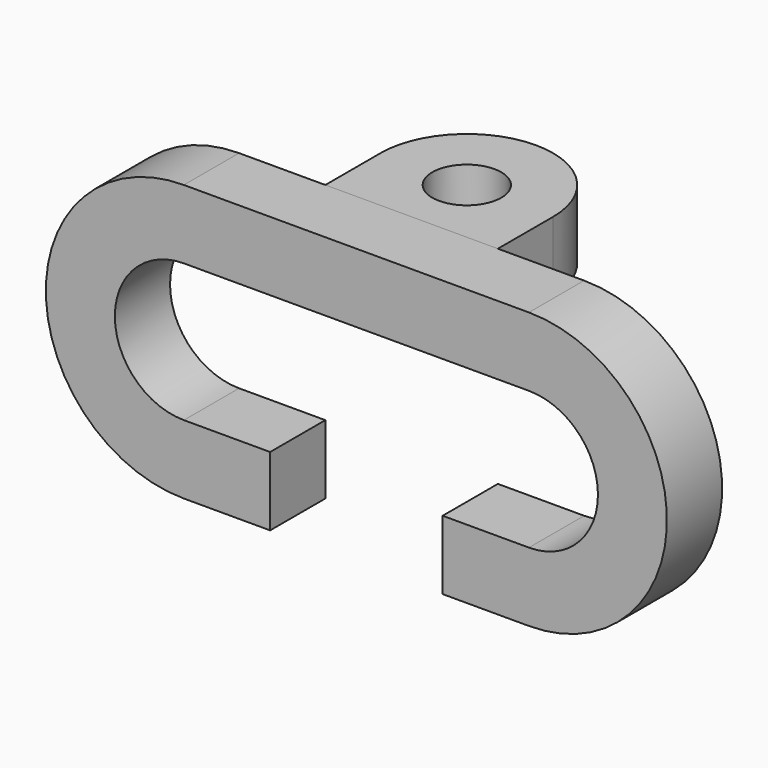
from build123d import *

# Parameters (mm, degrees)
F1_DEPTH = 12.7
F2_R     = 6.35
F3_DEPTH = 12.7


with BuildPart() as f1:
    # F0 (on Front) → F1 (new body)
    with BuildSketch(Plane.XZ):
        with BuildLine():
            Line((15.875, -25.4), (31.75, -25.4))
            ThreePointArc((31.75, -25.4), (57.15, 0), (31.75, 25.4))
            Line((31.75, 25.4), (0, 25.4))
            Line((0, 25.4), (-31.75, 25.4))
            ThreePointArc((-31.75, 25.4), (-57.15, 0), (-31.75, -25.4))
            Line((-31.75, -25.4), (-15.875, -25.4))
            Line((-15.875, -25.4), (-15.875, -12.7))
            Line((-15.875, -12.7), (-31.75, -12.7))
            ThreePointArc((-31.75, -12.7), (-44.45, 0), (-31.75, 12.7))
            Line((-31.75, 12.7), (0, 12.7))
            Line((0, 12.7), (31.75, 12.7))
            ThreePointArc((31.75, 12.7), (44.45, 0), (31.75, -12.7))
            Line((31.75, -12.7), (15.875, -12.7))
            Line((15.875, -12.7), (15.875, -25.4))
        make_face()
    extrude(amount=F1_DEPTH)


with BuildPart() as f3:
    # F2 (on face) → F3 (new body)
    with BuildSketch(Plane(origin=(0, 0, 12.7), x_dir=(1, 0, 0), z_dir=(0, 0, -1))):
        with BuildLine():
            Line((-15.875, 0), (-15.875, -12.7))
            ThreePointArc((-15.875, -12.7), (0, -28.575), (15.875, -12.7))
            Line((15.875, -12.7), (15.875, 0))
            Line((15.875, 0), (-15.875, 0))
        make_face()
        with Locations((0, -12.7)):
            Circle(F2_R, mode=Mode.SUBTRACT)
    extrude(amount=-F3_DEPTH)


solid = Compound([f1.part, f3.part])
